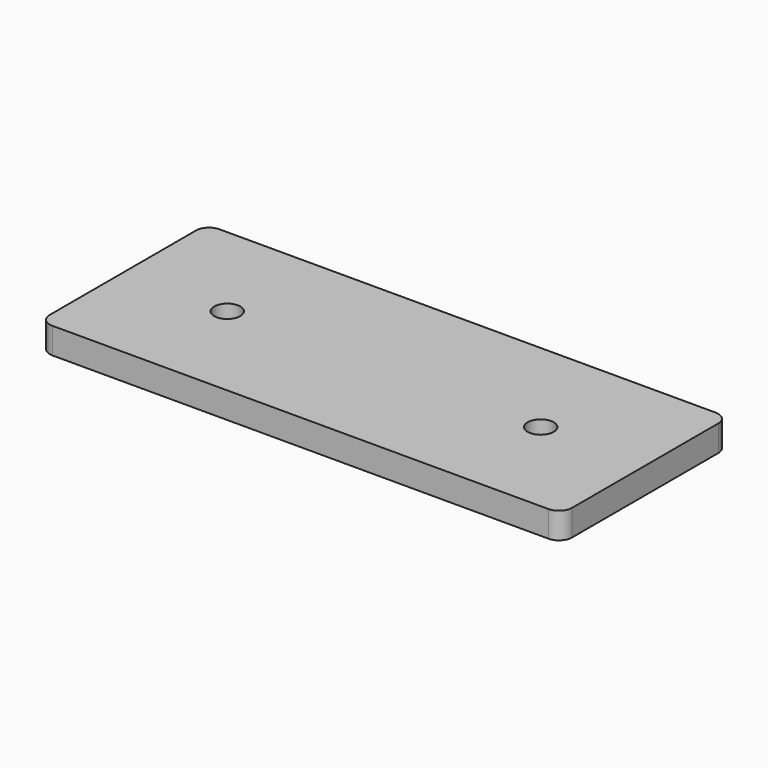
from build123d import *

# Parameters (mm, degrees)
F0_W     = 254
F0_H     = 101.6
F0_R     = 6.35
F1_DEPTH = 12.7
F2_R     = 6.35


with BuildPart() as f1:
    # F0 (on Top) → F1 (new body)
    with BuildSketch(Plane.XY):
        Rectangle(F0_W, F0_H)
        with Locations((-76.2, 0)):
            Circle(F0_R, mode=Mode.SUBTRACT)
        with Locations((76.2, 0)):
            Circle(F0_R, mode=Mode.SUBTRACT)
    extrude(amount=F1_DEPTH)

    # F2
    f2_edges = [f1.edges().sort_by_distance(p)[0] for p in [
        (-127, 50.8, 6.35),
        (-127, -50.8, 6.35),
        (127, -50.8, 6.35),
        (127, 50.8, 6.35),
    ]]
    fillet(f2_edges, radius=F2_R)


solid = f1.part
